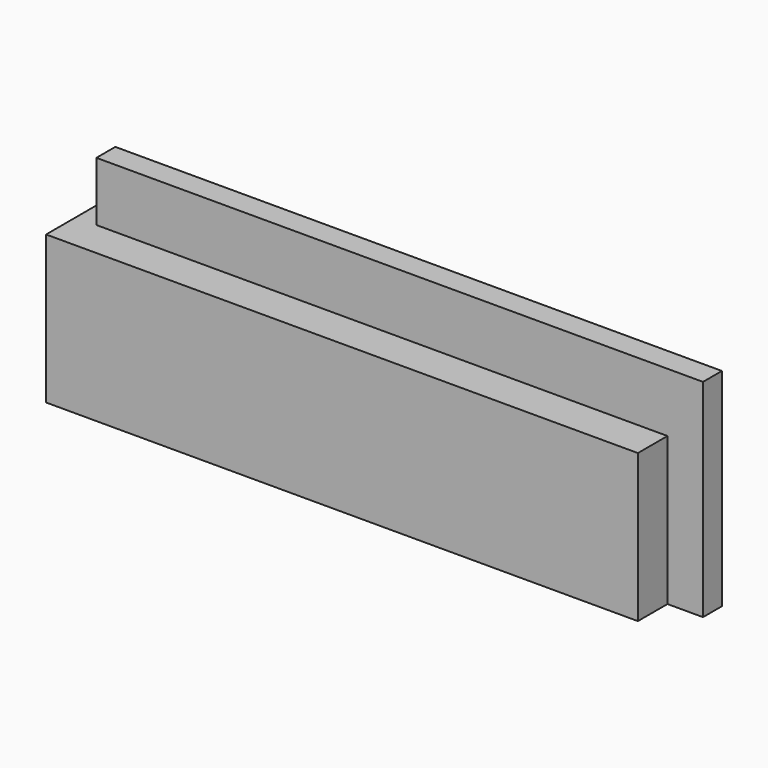
from build123d import *

# Parameters (mm, degrees)
F0_W     = 200
F0_H     = 50
F1_DEPTH = 12.5
F2_W     = 205
F2_H     = 70
F3_DEPTH = 8


with BuildPart() as f1:
    # F0 (on Front) → F1 (new body, symmetric)
    with BuildSketch(Plane.XZ):
        Rectangle(F0_W, F0_H)
    extrude(amount=F1_DEPTH, both=True)


with BuildPart() as f3:
    # F2 (on Front) → F3 (new body)
    with BuildSketch(Plane.XZ):
        with Locations((9.5, 10)):
            Rectangle(F2_W, F2_H)
    extrude(amount=-F3_DEPTH)


solid = Compound([f1.part, f3.part])
